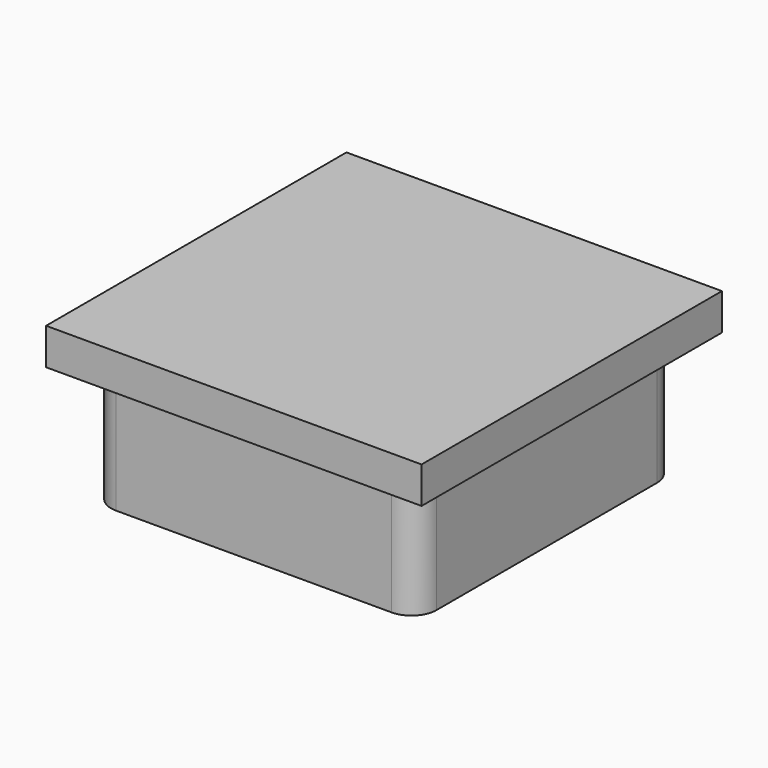
from build123d import *

# Parameters (mm, degrees)
F1_DEPTH = 6.096
F3_DEPTH = 5.08
F4_W     = 19.05
F4_H     = 19.05
F5_DEPTH = 1.8542


with BuildPart() as f1:
    # F0 (on Top) → F1 (new body)
    with BuildSketch(Plane.XY):
        with BuildLine():
            ThreePointArc((0, 1.27), (0.371974, 0.371974), (1.27, 0))
            Line((1.27, 0), (15.24, 0))
            ThreePointArc((15.24, 0), (16.138026, 0.371974), (16.51, 1.27))
            Line((16.51, 1.27), (16.51, 15.24))
            ThreePointArc((16.51, 15.24), (16.138026, 16.138026), (15.24, 16.51))
            Line((15.24, 16.51), (1.27, 16.51))
            ThreePointArc((1.27, 16.51), (0.371974, 16.138026), (0, 15.24))
            Line((0, 15.24), (0, 1.27))
        make_face()
    extrude(amount=-F1_DEPTH)

    # F2 (on face) → F3 (cut)
    with BuildSketch(Plane(origin=(0, 0, -6.096), x_dir=(1, 0, 0), z_dir=(0, 0, -1))):
        with BuildLine():
            Line((13.97, -1.27), (2.54, -1.27))
            ThreePointArc((2.54, -1.27), (1.641974, -1.641974), (1.27, -2.54))
            Line((1.27, -2.54), (1.27, -13.97))
            ThreePointArc((1.27, -13.97), (1.641974, -14.868026), (2.54, -15.24))
            Line((2.54, -15.24), (13.97, -15.24))
            ThreePointArc((13.97, -15.24), (14.868026, -14.868026), (15.24, -13.97))
            Line((15.24, -13.97), (15.24, -2.54))
            ThreePointArc((15.24, -2.54), (14.868026, -1.641974), (13.97, -1.27))
        make_face()
    extrude(amount=-F3_DEPTH, mode=Mode.SUBTRACT)

    # F4 (on Top) → F5 (join)
    with BuildSketch(Plane.XY):
        with Locations((8.255, 8.255)):
            Rectangle(F4_W, F4_H)
    extrude(amount=F5_DEPTH)


solid = f1.part
